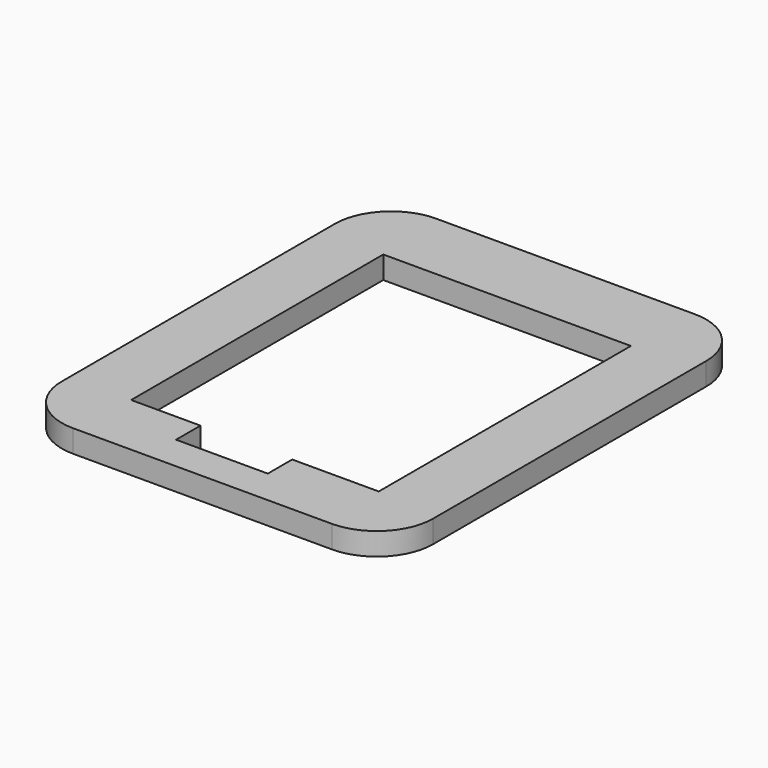
from build123d import *

# Parameters (mm, degrees)
F0_W     = 65.991625
F0_H     = 80.656428
F1_DEPTH = 4
F3_R     = 10
F2_W     = 16.302
F2_H     = 5.422647
F4_DEPTH = 25


with BuildPart() as f1:
    # F0 (on Top) → F1 (new body)
    with BuildSketch(Plane.XY):
        with Locations((0.733241, -10.265363)):
            Rectangle(F0_W, F0_H)
    extrude(amount=F1_DEPTH)

    # F3
    f3_edges = [f1.edges().sort_by_distance(p)[0] for p in [
        (33.729054, 30.062851, 2),
        (-32.262571, 30.062851, 2),
        (-32.262571, -50.593577, 2),
        (33.729054, -50.593577, 2),
    ]]
    fillet(f3_edges, radius=F3_R)

    # F2 (on face) → F4 (cut)
    with BuildSketch(Plane.XY.offset(4)):
        with Locations((-0.79059, -41.648472)):
            Rectangle(F2_W, F2_H)
        Polygon((22.737429, 17.062851), (-21.262571, 17.062851), (-21.262571, -38.937149), (-8.94159, -38.937149), (7.36041, -38.937149), (22.737429, -38.937149), align=None)
    extrude(amount=-F4_DEPTH, mode=Mode.SUBTRACT)


solid = f1.part
